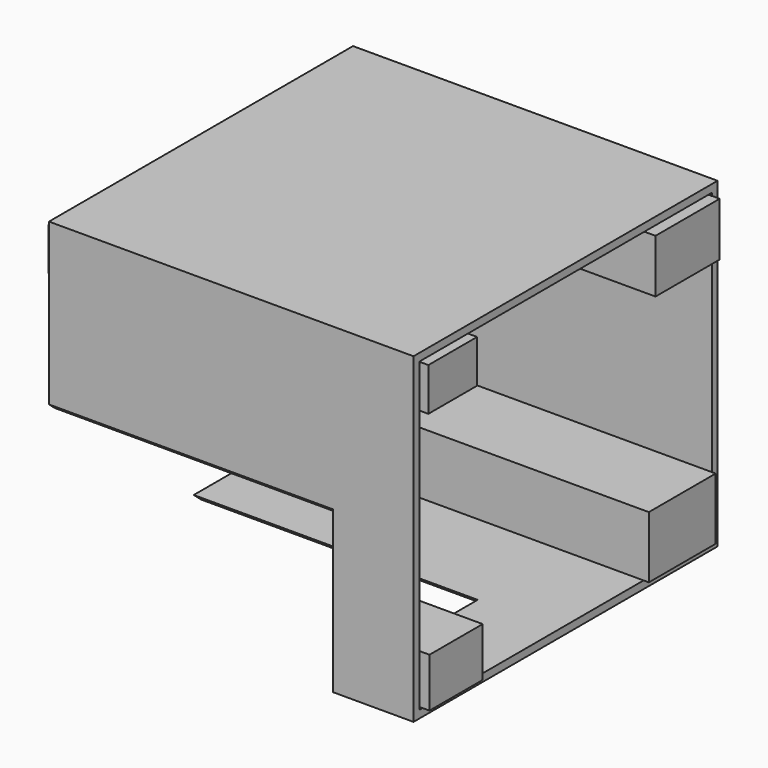
from build123d import *

# Parameters (mm, degrees)
F0_W     = 121.8193843961
F0_H     = 107.5678020716
F1_DEPTH = 63.5
F3_DEPTH = 94.8674306273
F5_W     = 122.1761479974
F5_H     = 102.4538055062
F6_DEPTH = 635
F7_W     = 20.3673020005
F7_H     = 14.3496990204
F8_DEPTH = 63.5
F7_W_2   = 22.2188573153
F7_H_2   = 16.4326854228
F7_W_3   = 26.8085598946
F7_H_3   = 17.8723633289
F7_W_4   = 27.92558074
F7_H_4   = 20.6649303436
F9_DEPTH = 103.008158505


with BuildPart() as f1:
    # F0 (on Front) → F1 (new body, symmetric)
    with BuildSketch(Plane.XZ):
        Rectangle(F0_W, F0_H)
    extrude(amount=F1_DEPTH, both=True)

    # F2 (on face) → F3 (cut)
    with BuildSketch(Plane(origin=(-60.909692198, 0, 0), x_dir=(0, -1, 0), z_dir=(-1, 0, 0))):
        Polygon((63.5, 0), (0, -53.7839010358), (63.5, -53.7839010358), align=None)
    extrude(amount=-F3_DEPTH, mode=Mode.SUBTRACT)

    # F5 (on face) → F6 (cut)
    with BuildSketch(Plane.YZ.offset(60.909692198)):
        Rectangle(F5_W, F5_H)
    extrude(amount=-F6_DEPTH, mode=Mode.SUBTRACT)

    # F7 (on Right) → F8, piece 3 (join, symmetric)
    with BuildSketch(Plane.YZ):
        with Locations((47.744974494, 41.3487032056)):
            Rectangle(F7_W_3, F7_H_3)
    extrude(amount=F8_DEPTH, both=True)


with BuildPart() as f8:
    # F7 (on Right) → F8 (new body, symmetric)
    with BuildSketch(Plane.YZ):
        with Locations((-50.349149853, 43.6503365636)):
            Rectangle(F7_W, F7_H)
    extrude(amount=F8_DEPTH, both=True)


with BuildPart() as f8b:
    # F7 (on Right) → F8, piece 2 (new body, symmetric)
    with BuildSketch(Plane.YZ):
        with Locations((-48.9604605273, -42.7950013518)):
            Rectangle(F7_W_2, F7_H_2)
    extrude(amount=F8_DEPTH, both=True)

    # F9 (cut): a face of the model
    f9_faces = [f8b.faces().sort_by_distance(p)[0] for p in [
        (-63.5, -48.9604605273, -42.7950013518),
    ]]
    extrude(f9_faces, amount=-F9_DEPTH, mode=Mode.SUBTRACT)


with BuildPart() as f8c:
    # F7 (on Right) → F8, piece 4 (new body, symmetric)
    with BuildSketch(Plane.YZ):
        with Locations((45.5109328032, -40.1939749718)):
            Rectangle(F7_W_4, F7_H_4)
    extrude(amount=F8_DEPTH, both=True)


solid = Compound([f1.part, f8.part, f8b.part, f8c.part])
